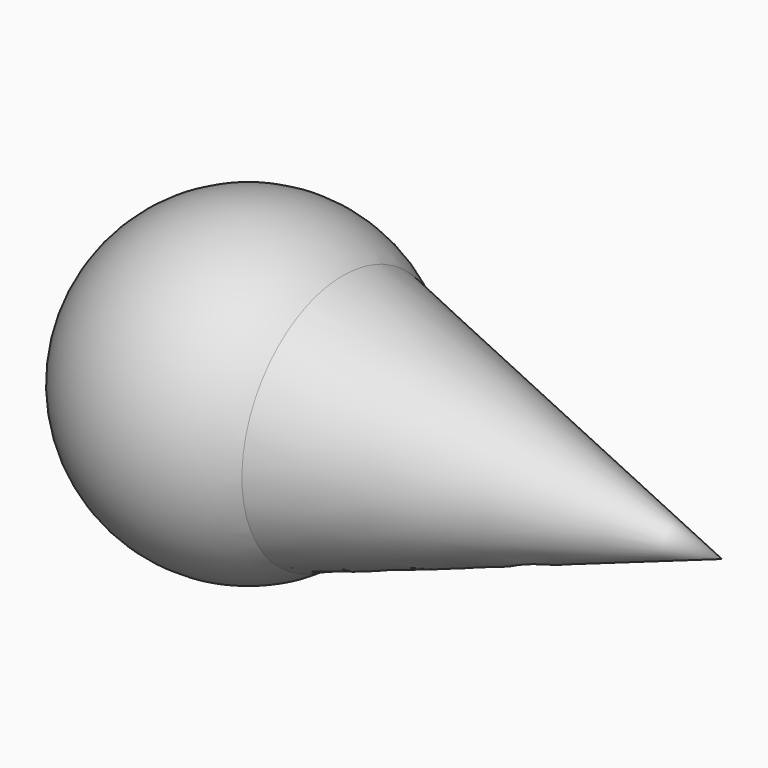
from build123d import *

# Parameters (mm, degrees)
F4_R     = 10.16
F5_DEPTH = 25.4
F6_R     = 10.16
F7_DEPTH = 12.7
F8_R     = 5.08
F9_DEPTH = 25.4


with BuildPart() as f1:
    # F0 (on Front) → F1 (revolve)
    with BuildSketch(Plane.XZ):
        with BuildLine():
            Line((0, -25.4), (0, 25.4))
            ThreePointArc((0, 25.4), (-25.4, 0), (0, -25.4))
        make_face()
    revolve(axis=Axis((0, 0, 0), (0, 0, -1)))

    # F2 (on Front) → F3 (revolve)
    with BuildSketch(Plane.XZ):
        Polygon((0, 25.4), (0, 0), (76.2, 0), align=None)
    revolve(axis=Axis((38.1, 0, 0), (1, 0, 0)))

    # F4 (on Top) → F5 (cut)
    with BuildSketch(Plane.XY):
        Circle(F4_R)
    extrude(amount=-F5_DEPTH, mode=Mode.SUBTRACT)

    # F6 (on Top) → F7 (join)
    with BuildSketch(Plane.XY):
        Circle(F6_R)
    extrude(amount=-F7_DEPTH)

    # F8 (on Top) → F9 (cut)
    with BuildSketch(Plane.XY):
        with Locations((22.86, 0)):
            Circle(F8_R)
        with Locations((35.56, 0)):
            Circle(F8_R)
        with Locations((48.26, 0)):
            Circle(F8_R)
    extrude(amount=-F9_DEPTH, mode=Mode.SUBTRACT)


solid = f1.part
